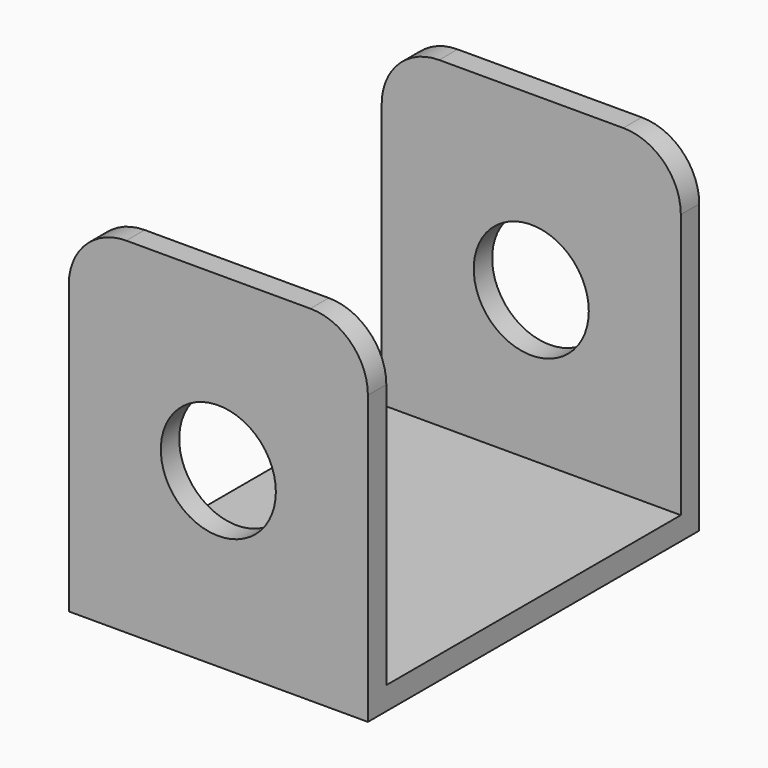
from build123d import *

# Parameters (mm, degrees)
F1_DEPTH = 13
F2_R     = 5
F3_DEPTH = 500
F4_R     = 5


with BuildPart() as f1:
    # F0 (on Right) → F1 (new body, symmetric)
    with BuildSketch(Plane.YZ):
        Polygon((-16, 15), (-18, 15), (-18, -15), (18, -15), (18, 15), (16, 15), (16, -13), (-16, -13), align=None)
    extrude(amount=F1_DEPTH, both=True)

    # F2 (on Front) → F3 (cut, symmetric)
    with BuildSketch(Plane.XZ):
        Circle(F2_R)
    extrude(amount=F3_DEPTH, both=True, mode=Mode.SUBTRACT)

    # F4
    f4_edges = [f1.edges().sort_by_distance(p)[0] for p in [
        (13, 17, 15),
        (-13, 17, 15),
        (-13, -17, 15),
        (13, -17, 15),
    ]]
    fillet(f4_edges, radius=F4_R)


solid = f1.part
